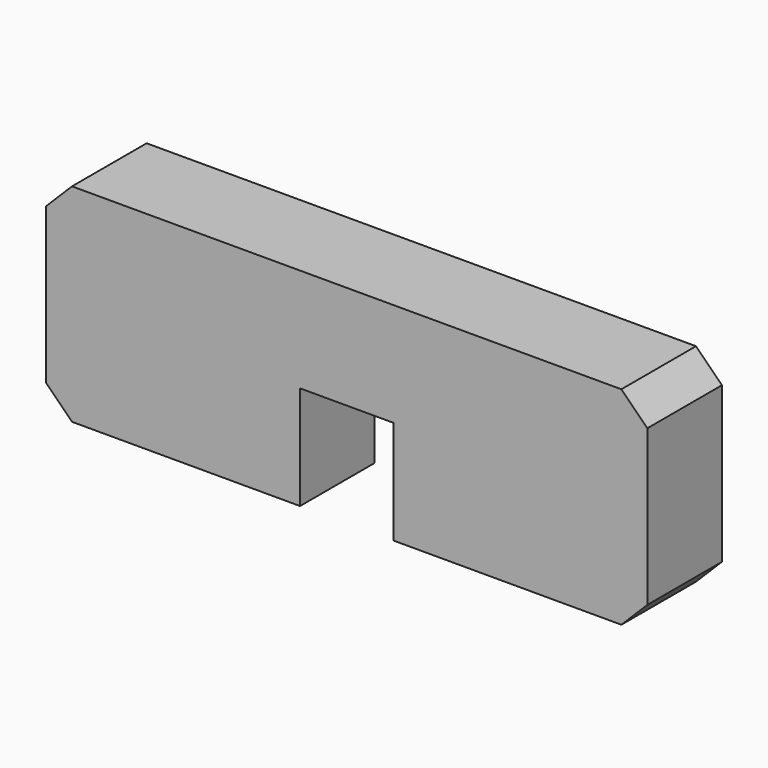
from build123d import *

# Parameters (mm, degrees)
F1_DEPTH = 18
F2_SIZE  = 5


with BuildPart() as f1:
    # F0 (on Front) → F1 (new body)
    with BuildSketch(Plane.XZ):
        Polygon((-9, 0), (-9, 20), (9, 20), (9, 0), (58, 0), (58, 40), (-58, 40), (-58, 0), align=None)
    extrude(amount=F1_DEPTH)

    # F2
    f2_edges = [f1.edges().sort_by_distance(p)[0] for p in [
        (-58, -9, 0),
        (58, -9, 0),
        (58, -9, 40),
        (-58, -9, 40),
    ]]
    chamfer(f2_edges, length=F2_SIZE)


solid = f1.part
